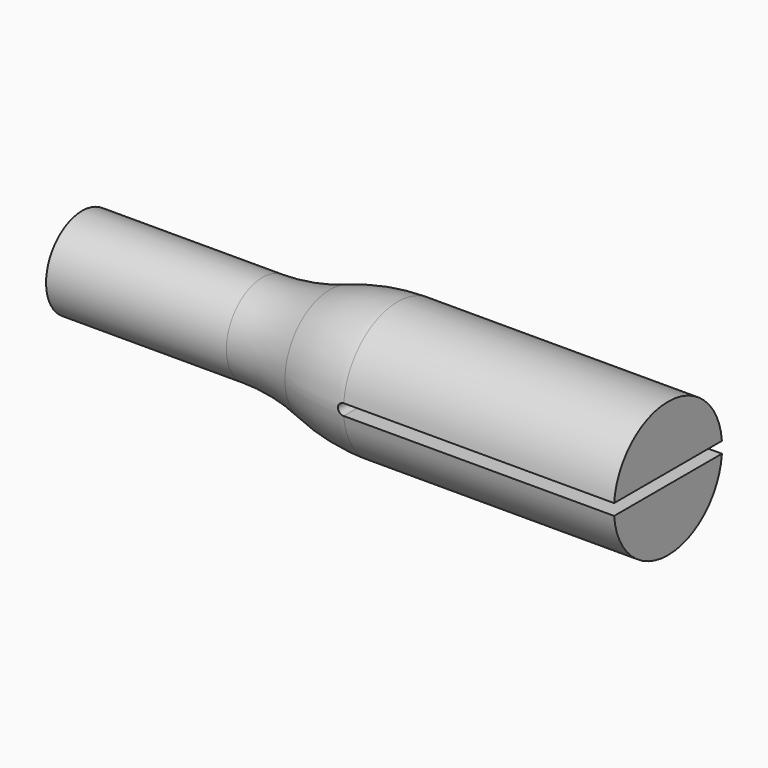
from build123d import *

# Parameters (mm, degrees)
F3_DEPTH      = 19.0510001
F3_DEPTH_BACK = 19.0510001


with BuildPart() as f1:
    # F0 (on Front) → F1 (revolve)
    with BuildSketch(Plane.XZ):
        with BuildLine():
            Line((-38.1, 12.7), (-88.9, 12.7))
            Line((-88.9, 12.7), (-88.9, 0))
            Line((-88.9, 0), (76.2, 0))
            Line((76.2, 0), (76.2, 19.05))
            Line((76.2, 19.05), (0, 19.05))
            ThreePointArc((0, 19.05), (-9.6563855168, 18.2508131011), (-19.05, 15.875))
            ThreePointArc((-19.05, 15.875), (-28.4436144832, 13.4991868989), (-38.1, 12.7))
        make_face()
    revolve(axis=Axis((-6.35, 0, 0), (1, 0, 0)))

    # F2 (on Front) → F3 (cut, two sides)
    with BuildSketch(Plane.XZ) as f3_sk:
        with BuildLine():
            Line((76.2, -1.5875), (76.2, 1.5875))
            Line((76.2, 1.5875), (0, 1.5875))
            ThreePointArc((0, 1.5875), (-1.5875, 0), (0, -1.5875))
            Line((0, -1.5875), (76.2, -1.5875))
        make_face()
    extrude(amount=-F3_DEPTH, mode=Mode.SUBTRACT)
    extrude(f3_sk.sketch, amount=F3_DEPTH_BACK, mode=Mode.SUBTRACT)


solid = f1.part
